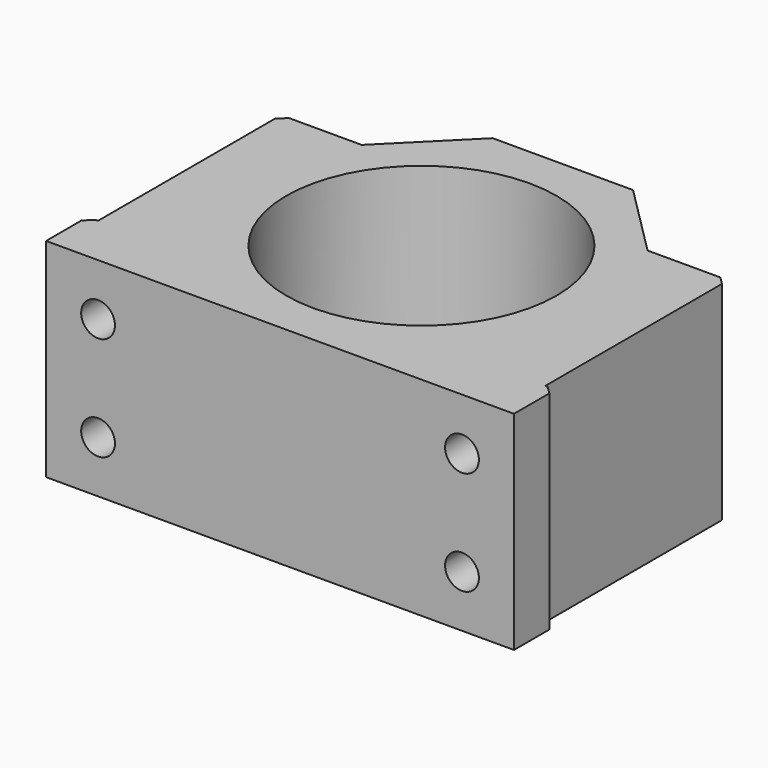
from build123d import *

# Parameters (mm, degrees)
SKETCH_R     = 26
PAD_DEPTH    = 20
SKETCH001_R  = 3.25
POCKET_DEPTH = 55
CHAMFER_SIZE = 1.5


with BuildPart() as part:
    # Sketch → Pad (new body, symmetric)
    with BuildSketch(Plane.XY):
        Polygon((-45, 0), (45, 0), (45, 10), (43, 10), (43, 54), (27.5, 54), (13.5, 68), (-13.5, 68), (-27.5, 54), (-43, 54), (-43, 10), (-45, 10), align=None)
        with Locations((0, 34)):
            Circle(SKETCH_R, mode=Mode.SUBTRACT)
    extrude(amount=PAD_DEPTH, both=True)

    # Sketch001 (on Face1 of Pad) → Pocket (cut)
    with BuildSketch(Plane.XZ):
        with Locations((-35, 10)):
            Circle(SKETCH001_R)
        with Locations((35, 10)):
            Circle(SKETCH001_R)
        with Locations((35, -10)):
            Circle(SKETCH001_R)
        with Locations((-35, -10)):
            Circle(SKETCH001_R)
    extrude(amount=-POCKET_DEPTH, mode=Mode.SUBTRACT)

    # Chamfer
    chamfer_edges = [part.edges().sort_by_distance(p)[0] for p in [
        (45, 10, 0),
        (-45, 10, 0),
        (-43, 54, 0),
        (43, 54, 0),
    ]]
    chamfer(chamfer_edges, length=CHAMFER_SIZE)


solid = part.part
